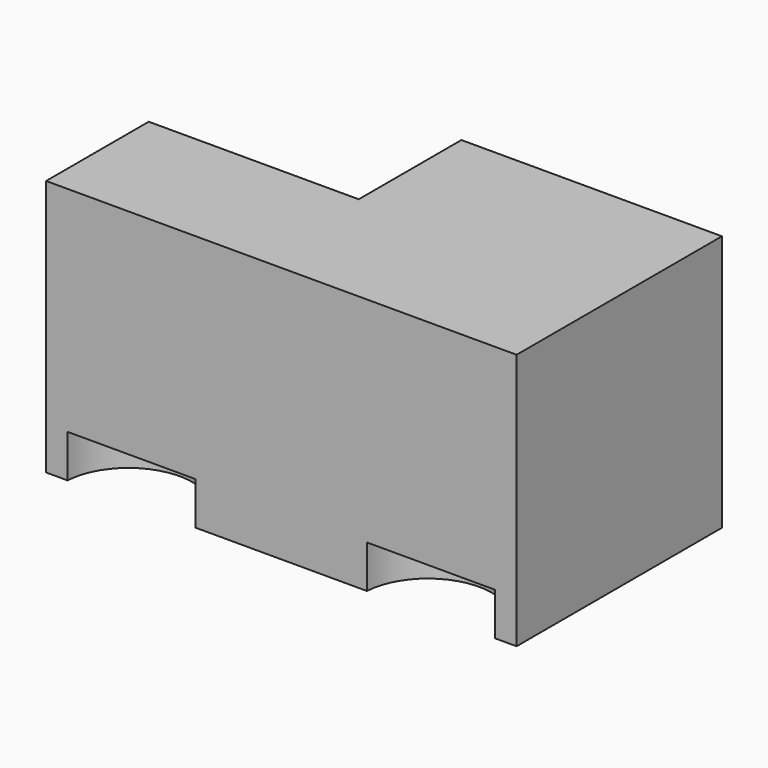
from build123d import *

# Parameters (mm, degrees)
F0_W     = 55
F0_H     = 30
F1_DEPTH = 30
F2_W     = 25.139422
F2_H     = 16
F3_DEPTH = 67.1
F4_R     = 7.5
F5_DEPTH = 5
F6_DEPTH = 5


with BuildPart() as f1:
    # F0 (on Top) → F1 (new body)
    with BuildSketch(Plane.XY):
        Rectangle(F0_W, F0_H)
    extrude(amount=F1_DEPTH)

    # F2 (on Top) → F3 (cut)
    with BuildSketch(Plane.XY):
        with Locations((-15.522837, 8)):
            Rectangle(F2_W, F2_H)
    extrude(amount=F3_DEPTH, mode=Mode.SUBTRACT)

    # F4 (on Top) → F5 (cut)
    with BuildSketch(Plane.XY):
        with Locations((17.489556, -15.456908)):
            Circle(F4_R)
    extrude(amount=F5_DEPTH, mode=Mode.SUBTRACT)

    # F4 (on Top) → F6 (cut)
    with BuildSketch(Plane.XY):
        with Locations((-17.510444, -15.456908)):
            Circle(F4_R)
        with Locations((17.489556, -15.456908)):
            Circle(F4_R)
    extrude(amount=F6_DEPTH, mode=Mode.SUBTRACT)


solid = f1.part
